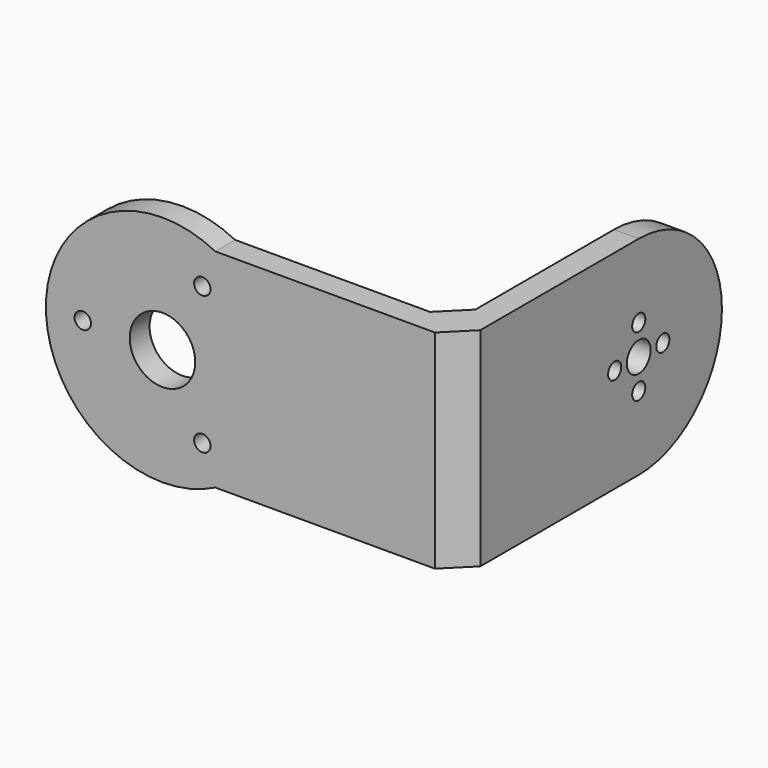
from build123d import *

# Parameters (mm, degrees)
F0_R     = 23.5
F0_R_2   = 1.651
F0_R_3   = 6.6
F1_DEPTH = 5
F2_W     = 49.363366
F2_H     = 41.91
F3_DEPTH = 5
F4_W     = 5
F4_H     = 41.91
F5_DEPTH = 40
F6_R     = 20.955
F7_DEPTH = 5
F8_R     = 1.651
F8_R_2   = 3
F9_DEPTH = 25.4
F10_SIZE = 5.08


with BuildPart() as f1:
    # F0 (on Front) → F1 (new body)
    with BuildSketch(Plane.XZ):
        Circle(F0_R)
        with Locations((8.030942, -13.91)):
            Circle(F0_R_2, mode=Mode.SUBTRACT)
        with Locations((-16.061884, 0)):
            Circle(F0_R_2, mode=Mode.SUBTRACT)
        Circle(F0_R_3, mode=Mode.SUBTRACT)
        with Locations((8.030942, 13.91)):
            Circle(F0_R_2, mode=Mode.SUBTRACT)
    extrude(amount=F1_DEPTH)

    # F2 (on Front) → F3 (join)
    with BuildSketch(Plane.XZ):
        with Locations((35.318317, 0)):
            Rectangle(F2_W, F2_H)
    extrude(amount=F3_DEPTH)

    # F4 (on face) → F5 (join)
    with BuildSketch(Plane(origin=(0, 0, 0), x_dir=(-1, 0, 0), z_dir=(0, 1, 0))):
        with Locations((-57.5, 0)):
            Rectangle(F4_W, F4_H)
    extrude(amount=F5_DEPTH)

    # F6 (on face) → F7 (join)
    with BuildSketch(Plane(origin=(55, 0, 0), x_dir=(0, -1, 0), z_dir=(-1, 0, 0))):
        with Locations((-40, 0)):
            Circle(F6_R)
    extrude(amount=-F7_DEPTH)

    # F8 (on face) → F9 (cut)
    with BuildSketch(Plane(origin=(55, 0, 0), x_dir=(0, -1, 0), z_dir=(-1, 0, 0))):
        with Locations((-40, 6.075)):
            Circle(F8_R)
        with Locations((-46.075, 0)):
            Circle(F8_R)
        with Locations((-40, -6.075)):
            Circle(F8_R)
        with Locations((-33.925, 0)):
            Circle(F8_R)
        with Locations((-40, 0)):
            Circle(F8_R_2)
    extrude(amount=-F9_DEPTH, mode=Mode.SUBTRACT)

    # F10
    f10_edges = [f1.edges().sort_by_distance(p)[0] for p in [
        (55, 0, 0),
        (60, -5, 0),
    ]]
    chamfer(f10_edges, length=F10_SIZE)


solid = f1.part
